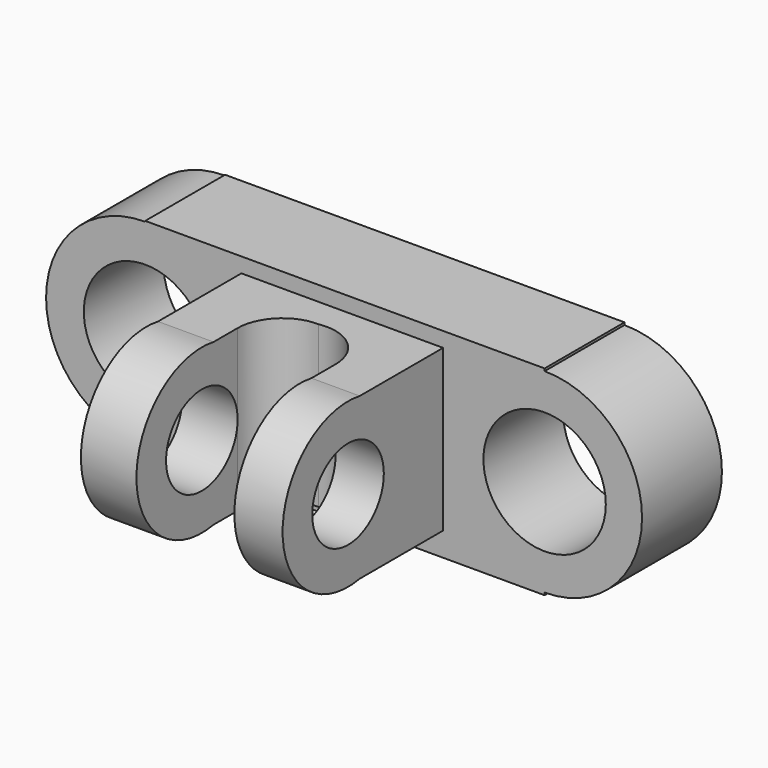
from build123d import *

# Parameters (mm, degrees)
F0_R     = 15.616617
F0_R_2   = 15.565152
F1_DEPTH = 25.4
F3_DEPTH = 25.654
F5_DEPTH = 54.356
F6_R     = 11.380307
F7_DEPTH = 94.234


with BuildPart() as f1:
    # F0 (on Front) → F1 (new body)
    with BuildSketch(Plane.XZ):
        with BuildLine():
            Line((-50.8, -25.4), (50.8, -25.4))
            Line((50.8, -25.4), (50.8, -24.783274))
            ThreePointArc((50.8, -24.783274), (75.583274, 0), (50.8, 24.783274))
            Line((50.8, 24.783274), (50.8, 25.4))
            Line((50.8, 25.4), (-50.8, 25.4))
            Line((-50.8, 25.4), (-50.8, 25.213412))
            ThreePointArc((-50.8, 25.213412), (-76.013412, 0), (-50.8, -25.213412))
            Line((-50.8, -25.213412), (-50.8, -25.4))
        make_face()
        with Locations((-50.8, 0)):
            Circle(F0_R, mode=Mode.SUBTRACT)
        with Locations((50.8, 0)):
            Circle(F0_R_2, mode=Mode.SUBTRACT)
    extrude(amount=F1_DEPTH)


with BuildPart() as f3:
    # F2 (on Right) → F3 (new body, symmetric)
    with BuildSketch(Plane.YZ):
        with BuildLine():
            Line((-26.24115, -18.753318), (-26.24115, 22.168148))
            Line((-26.24115, 22.168148), (-52.749206, 22.168148))
            ThreePointArc((-52.749206, 22.168148), (-77.271091, 1.707415), (-52.749206, -18.753318))
            Line((-52.749206, -18.753318), (-26.24115, -18.753318))
        make_face()
    extrude(amount=F3_DEPTH, both=True)

    # F4 (on face) → F5 (cut, symmetric)
    with BuildSketch(Plane.XY.offset(22.168148)):
        with BuildLine():
            Line((-11.532298, -52.749206), (13.377465, -52.749206))
            Line((13.377465, -52.749206), (13.377465, -45.126837))
            ThreePointArc((13.377465, -45.126837), (9.318529, -36.345782), (0, -33.748299))
            ThreePointArc((0, -33.748299), (-8.145119, -37.026451), (-11.532298, -45.126837))
            Line((-11.532298, -45.126837), (-11.532298, -52.749206))
        make_face()
        Polygon((-11.532298, -78.339852), (13.377465, -77.417269), (13.377465, -52.749206), (-11.532298, -52.749206), align=None)
    extrude(amount=F5_DEPTH, both=True, mode=Mode.SUBTRACT)

    # F6 (on face) → F7 (cut)
    with BuildSketch(Plane.YZ.offset(25.654)):
        with Locations((-56.474067, 1.707415)):
            Circle(F6_R)
    extrude(amount=-F7_DEPTH, mode=Mode.SUBTRACT)


solid = Compound([f1.part, f3.part])
